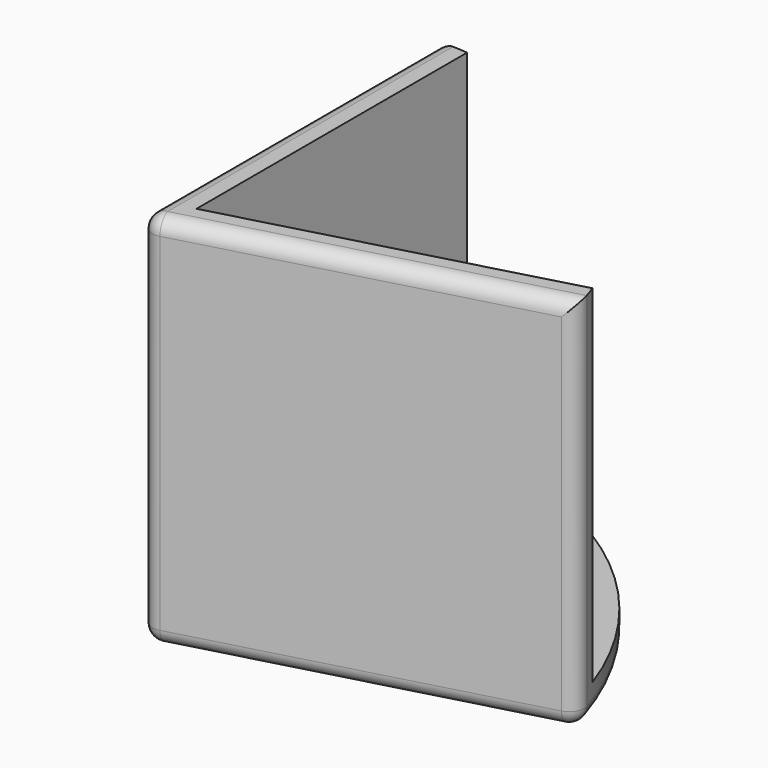
from build123d import *

# Parameters (mm, degrees)
PAD_DEPTH    = 25.4
POCKET_DEPTH = 23.4
FILLET_R     = 1


with BuildPart() as corner:
    # Sketch → Pad (new body)
    with BuildSketch(Plane.XY):
        with BuildLine():
            Line((0, 0), (0, -25.4))
            ThreePointArc((0, -25.4), (15.435414, -20.171961), (24.516737, -6.64))
            Line((0, 0), (24.516737, -6.64))
        make_face()
    extrude(amount=PAD_DEPTH)

    # Sketch001 (on Face5 of Pad) → Pocket (cut)
    with BuildSketch(Plane.XY.offset(25.4)):
        with BuildLine():
            Line((2, -2.5), (2, -27.9))
            ThreePointArc((2, -27.9), (17.435414, -22.671961), (26.516737, -9.14))
            Line((2, -2.5), (26.516737, -9.14))
        make_face()
    extrude(amount=-POCKET_DEPTH, mode=Mode.SUBTRACT)

    # Fillet
    fillet_edges = [corner.edges().sort_by_distance(p)[0] for p in [
        (0, -25.4, 12.7),
        (0, -12.7, 25.4),
        (0, -12.7, 0),
        (0, 0, 12.7),
        (15.435414, -20.171961, 0),
        (12.258369, -3.32, 0),
        (12.258369, -3.32, 25.4),
        (24.516737, -6.64, 12.7),
    ]]
    fillet(fillet_edges, radius=FILLET_R)


with BuildPart() as part_mirroring:
    # Part__Mirroring: instance of Corner
    add(corner.part.mirror(Plane(origin=(0, 0, 0), x_dir=(1, 0, 0), z_dir=(0, 1, 0))))


solid = part_mirroring.part
